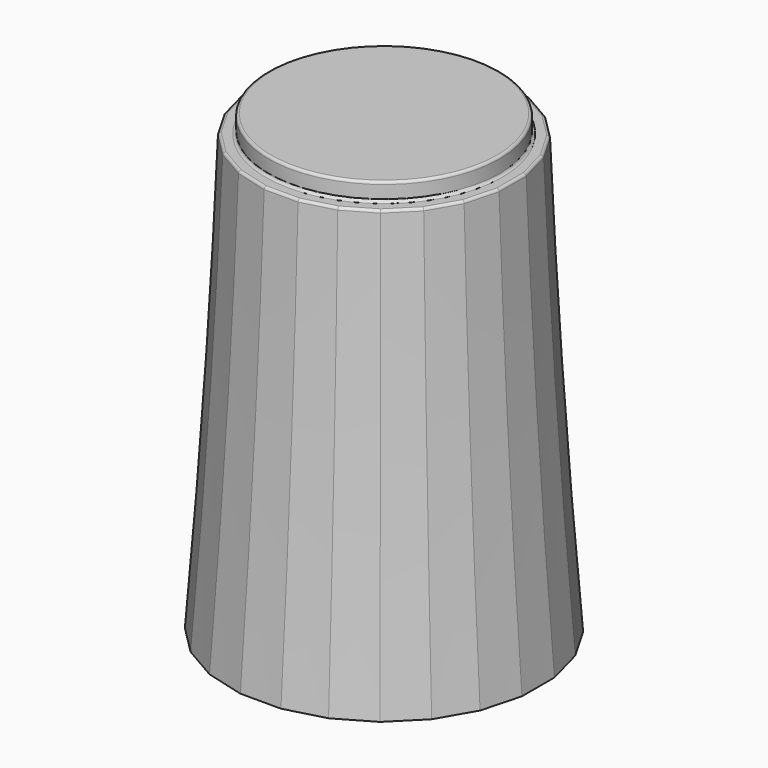
from build123d import *

# Parameters (mm, degrees)
SKETCH059_R     = 4.5
PAD014_DEPTH    = 0.7
SKETCH058_R     = 5
POCKET022_DEPTH = 1
SKETCH056_R     = 4.65
POCKET021_DEPTH = 1
POCKET023_DEPTH = 8
CHAMFER013_SIZE = 1.4
CHAMFER015_SIZE = 0.3
FILLET006_R     = 0.1


with BuildPart() as part:
    # Sketch061 → AdditiveLoft007 section 0
    with BuildSketch(Plane.XY):
        Polygon((-0.789915, 6), (-2.315914, 5.59111), (-3.684086, 4.801195), (-4.801195, 3.684086), (-5.59111, 2.315914), (-6, 0.789915), (-6, -0.789915), (-5.59111, -2.315914), (-4.801195, -3.684086), (-3.684086, -4.801195), (-2.315914, -5.59111), (-0.789915, -6), (0.789915, -6), (2.315914, -5.59111), (3.684086, -4.801195), (4.801195, -3.684086), (5.59111, -2.315914), (6, -0.789915), (6, 0.789915), (5.59111, 2.315914), (4.801195, 3.684086), (3.684086, 4.801195), (2.315914, 5.59111), (0.789915, 6), align=None)
    # Sketch060 → AdditiveLoft007 section 1
    with BuildSketch(Plane.XY.offset(7)):
        Polygon((-0.724089, 5.5), (-2.122921, 5.125184), (-3.377079, 4.401095), (-4.401095, 3.377079), (-5.125184, 2.122921), (-5.5, 0.724089), (-5.5, -0.724089), (-5.125184, -2.122921), (-4.401095, -3.377079), (-3.377079, -4.401095), (-2.122921, -5.125184), (-0.724089, -5.5), (0.724089, -5.5), (2.122921, -5.125184), (3.377079, -4.401095), (4.401095, -3.377079), (5.125184, -2.122921), (5.5, -0.724089), (5.5, 0.724089), (5.125184, 2.122921), (4.401095, 3.377079), (3.377079, 4.401095), (2.122921, 5.125184), (0.724089, 5.5), align=None)
    # Sketch062 → AdditiveLoft007 section 2
    with BuildSketch(Plane.XY.offset(17)):
        Polygon((-4.659258, 1.929928), (-5, 0.658262), (-5, -0.658262), (-4.659258, -1.929928), (-4.000996, -3.070072), (-3.070072, -4.000996), (-1.929928, -4.659258), (-0.658262, -5), (0.658262, -5), (1.929928, -4.659258), (3.070072, -4.000996), (4.000996, -3.070072), (4.659258, -1.929928), (5, -0.658262), (5, 0.658262), (4.659258, 1.929928), (4.000996, 3.070072), (3.070072, 4.000996), (1.929928, 4.659258), (0.658262, 5), (-0.658262, 5), (-1.929928, 4.659258), (-3.070072, 4.000996), (-4.000996, 3.070072), align=None)
    loft()

    # Sketch059 (on Face3 of AdditiveLoft007) → Pad014 (new body)
    with BuildSketch(Plane.XY.offset(17)):
        Circle(SKETCH059_R)
    extrude(amount=PAD014_DEPTH)

    # Sketch058 (on Face1 of Pad014) → Pocket022 (cut)
    with BuildSketch(Plane(origin=(0, 0, 0), x_dir=(1, 0, 0), z_dir=(0, 0, -1))):
        Circle(SKETCH058_R)
    extrude(amount=-POCKET022_DEPTH, mode=Mode.SUBTRACT)

    # Sketch056 (on Face28 of Pocket022) → Pocket021 (cut)
    with BuildSketch(Plane(origin=(0, 0, 1), x_dir=(1, 0, 0), z_dir=(0, 0, -1))):
        Circle(SKETCH056_R)
    extrude(amount=-POCKET021_DEPTH, mode=Mode.SUBTRACT)

    # Sketch057 (on Face32 of Pocket021) → Pocket023 (cut)
    with BuildSketch(Plane(origin=(0, 0, 2), x_dir=(1, 0, 0), z_dir=(0, 0, -1))):
        with BuildLine():
            ThreePointArc((-1.741757, 2.442598), (0, -3), (1.741757, 2.442598))
            Line((-1.741757, 2.442598), (1.741757, 2.442598))
        make_face()
    extrude(amount=-POCKET023_DEPTH, mode=Mode.SUBTRACT)

    # Chamfer013
    chamfer013_edges = [part.edges().sort_by_distance(p)[0] for p in [
        (0, 3, 2),
        (0, -2.442598, 2),
    ]]
    chamfer(chamfer013_edges, length=CHAMFER013_SIZE)

    # Chamfer015
    chamfer015_edges = [part.edges().sort_by_distance(p)[0] for p in [
        (-4.65, 0, 1),
    ]]
    chamfer(chamfer015_edges, length=CHAMFER015_SIZE)

    # Fillet006
    fillet006_edges = [part.edges().sort_by_distance(p)[0] for p in [
        (-4.5, 0, 17.7),
        (-4.829629, 1.294095, 17),
        (-4.330127, 2.5, 17),
        (-5, 0, 17),
        (-3.535534, 3.535534, 17),
        (-4.829629, -1.294095, 17),
        (-2.5, 4.330127, 17),
        (-4.330127, -2.5, 17),
        (-1.294095, 4.829629, 17),
        (-3.535534, -3.535534, 17),
        (0, 5, 17),
        (-2.5, -4.330127, 17),
        (1.294095, 4.829629, 17),
        (-1.294095, -4.829629, 17),
        (2.5, 4.330127, 17),
        (0, -5, 17),
        (3.535534, 3.535534, 17),
        (1.294095, -4.829629, 17),
        (4.330127, 2.5, 17),
        (2.5, -4.330127, 17),
        (4.829629, 1.294095, 17),
        (3.535534, -3.535534, 17),
        (5, 0, 17),
        (4.330127, -2.5, 17),
        (4.829629, -1.294095, 17),
        (-4.5, 0, 17),
    ]]
    fillet(fillet006_edges, radius=FILLET006_R)


solid = part.part
